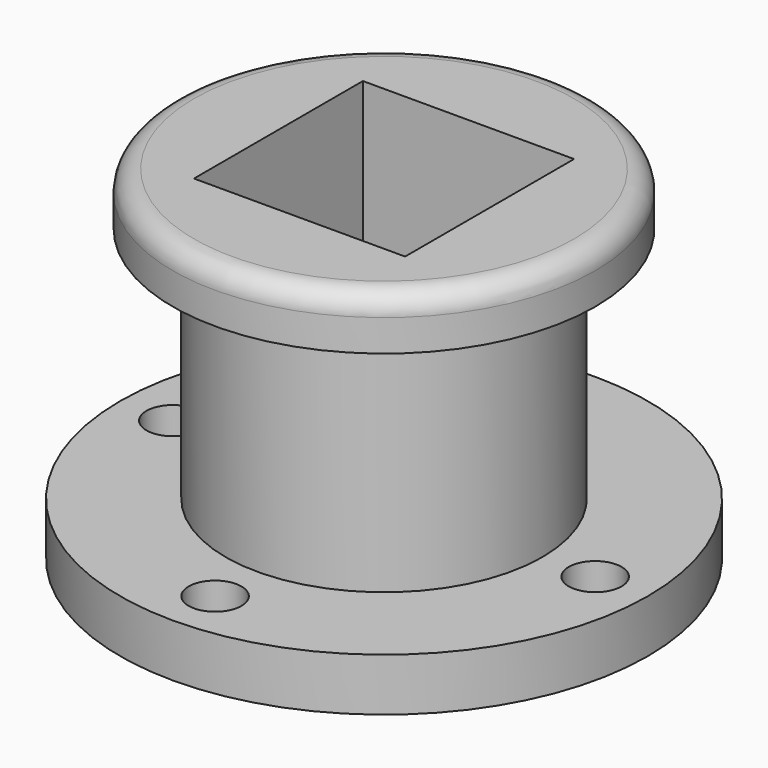
from build123d import *

# Parameters (mm, degrees)
F0_R     = 63.5
F1_DEPTH = 12.7
F2_R     = 38.1
F3_DEPTH = 57.15
F4_R     = 50.8
F5_DEPTH = 12.7
F7_R     = 6.35
F8_DEPTH = 25.4
F9_DEPTH = 127
F10_R    = 5.08


with BuildPart() as f1:
    # F0 (on Top) → F1 (new body)
    with BuildSketch(Plane.XY):
        Circle(F0_R)
    extrude(amount=F1_DEPTH)

    # F2 (on face) → F3 (join)
    with BuildSketch(Plane.XY.offset(12.7)):
        Circle(F2_R)
    extrude(amount=F3_DEPTH)

    # F4 (on face) → F5 (join)
    with BuildSketch(Plane.XY.offset(69.85)):
        Circle(F4_R)
    extrude(amount=F5_DEPTH)

    # F7 (on face) → F8 (cut)
    with BuildSketch(Plane(origin=(0, 0, 0), x_dir=(1, 0, 0), z_dir=(0, 0, -1))):
        with Locations((0, 50.8)):
            Circle(F7_R)
        with Locations((50.8, 0)):
            Circle(F7_R)
        with Locations((0, -50.8)):
            Circle(F7_R)
        with Locations((-50.8, 0)):
            Circle(F7_R)
    extrude(amount=-F8_DEPTH, mode=Mode.SUBTRACT)

    # F6 (on face) → F9 (cut)
    with BuildSketch(Plane(origin=(0, 0, 0), x_dir=(1, 0, 0), z_dir=(0, 0, -1))):
        Polygon((25.4, 25.4), (0, 25.4), (-25.4, 25.4), (-25.4, 0), (-25.4, -25.4), (0, -25.4), (25.4, -25.4), (25.4, 0), align=None)
    extrude(amount=-F9_DEPTH, mode=Mode.SUBTRACT)

    # F10
    f10_edges = [f1.edges().sort_by_distance(p)[0] for p in [
        (-50.8, 0, 82.55),
    ]]
    fillet(f10_edges, radius=F10_R)


solid = f1.part
